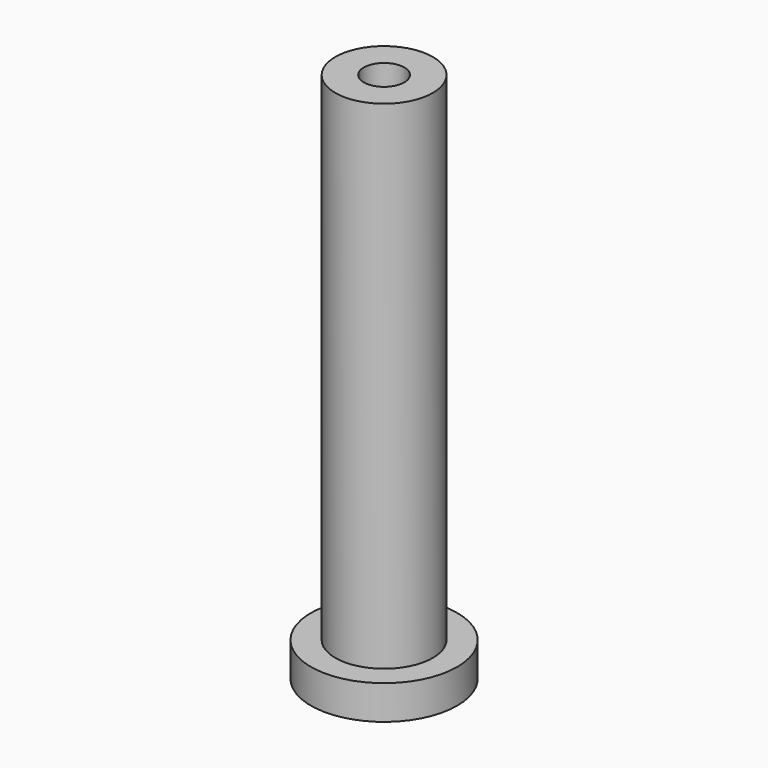
from build123d import *

# Parameters (mm, degrees)
SKETCH_R        = 7.5
PAD_DEPTH       = 3.5
SKETCH001_R     = 5
PAD001_DEPTH    = 51
SKETCH002_R     = 2.075
POCKET_DEPTH    = 54.501
SKETCH003_R     = 3.6
POCKET001_DEPTH = 5


with BuildPart() as part:
    # Sketch → Pad (new body)
    with BuildSketch(Plane.XY):
        Circle(SKETCH_R)
    extrude(amount=PAD_DEPTH)

    # Sketch001 (on Face3 of Pad) → Pad001 (join)
    with BuildSketch(Plane.XY.offset(3.5)):
        Circle(SKETCH001_R)
    extrude(amount=PAD001_DEPTH)

    # Sketch002 (on Face2 of Pad001) → Pocket (cut, through all)
    with BuildSketch(Plane(origin=(0, 0, 0), x_dir=(1, 0, 0), z_dir=(0, 0, -1))):
        Circle(SKETCH002_R)
    extrude(amount=-POCKET_DEPTH, mode=Mode.SUBTRACT)

    # Sketch003 (on Face2 of Pocket) → Pocket001 (cut)
    with BuildSketch(Plane(origin=(0, 0, 0), x_dir=(1, 0, 0), z_dir=(0, 0, -1))):
        Circle(SKETCH003_R)
    extrude(amount=-POCKET001_DEPTH, mode=Mode.SUBTRACT)


solid = part.part
